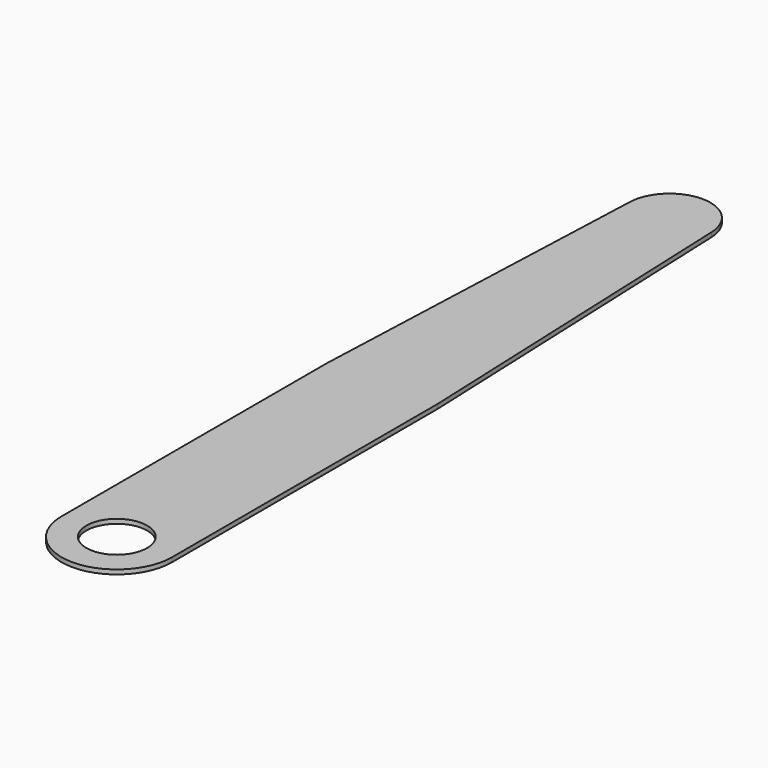
from build123d import *

# Parameters (mm, degrees)
F0_R     = 2.75
F1_DEPTH = 0.4


with BuildPart() as f1:
    # F0 (on Top) → F1 (new body)
    with BuildSketch(Plane.XY):
        with BuildLine():
            Line((-5, 30), (-5, 0))
            ThreePointArc((-5, 0), (0, -5), (5, 0))
            Line((5, 0), (5, 30))
            Line((5, 30), (3.695135, 62.647687))
            ThreePointArc((3.695135, 62.647687), (0.043949, 66.197824), (-3.690581, 62.735468))
            Line((-3.690581, 62.735468), (-3.697598, 62.560059))
            Line((-3.697598, 62.560059), (-5, 30))
        make_face()
        Circle(F0_R, mode=Mode.SUBTRACT)
    extrude(amount=F1_DEPTH)


solid = f1.part
